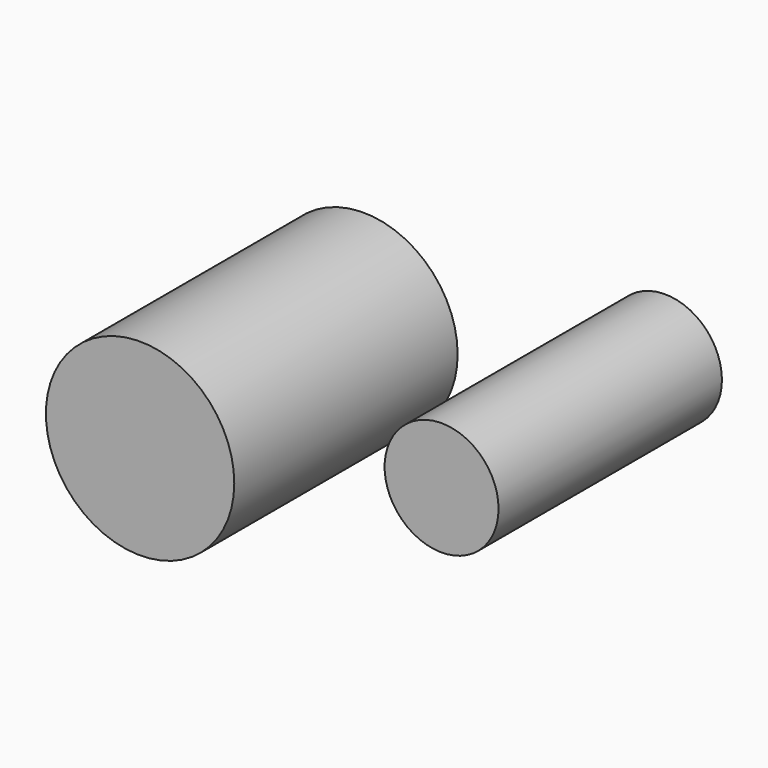
from build123d import *

# Parameters (mm, degrees)
F1_R     = 25.9122273215
F3_DEPTH = 127
F0_R     = 42.8392758179
F2_R     = 42.8392758179


with BuildPart() as f3:
    # F1 (on Front) → F3 (new body)
    with BuildSketch(Plane.XZ):
        with Locations((151.4436900616, 12.4474465847)):
            Circle(F1_R)
    extrude(amount=F3_DEPTH)


with BuildPart() as f3b:
    # F0 (on Front) → F3, piece 2 (new body)
    with BuildSketch(Plane.XZ):
        with Locations((14.3145173788, -16.3891017437)):
            Circle(F0_R)
    extrude(amount=F3_DEPTH)


with BuildPart() as f3c:
    # F2 (on face) → F3, piece 3 (new body)
    with BuildSketch(Plane.XZ):
        with Locations((14.3145173788, -16.3891017437)):
            Circle(F2_R)
    extrude(amount=F3_DEPTH)


solid = Compound([f3.part, f3b.part, f3c.part])
